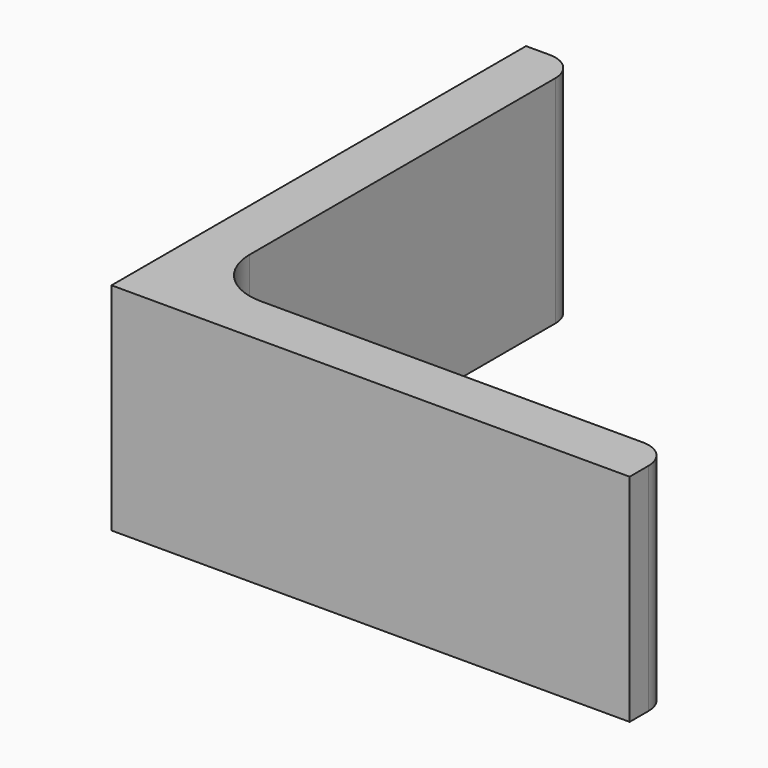
from build123d import *

# Parameters (mm, degrees)
EXTRUDE_DEPTH = 50


with BuildPart() as part:
    # Sketch → Extrude (new body)
    with BuildSketch(Plane.XY):
        with BuildLine():
            Line((0, 0), (120, 0))
            Line((120, 0), (120, 5.5))
            ThreePointArc((120, 5.5), (118.096194, 10.096194), (113.5, 12))
            Line((113.5, 12), (25, 12))
            ThreePointArc((12, 25), (15.807612, 15.807612), (25, 12))
            Line((12, 113.5), (12, 25))
            ThreePointArc((12, 113.5), (10.096194, 118.096194), (5.5, 120))
            Line((0, 120), (5.5, 120))
            Line((0, 0), (0, 120))
        make_face()
    extrude(amount=EXTRUDE_DEPTH)


solid = part.part
